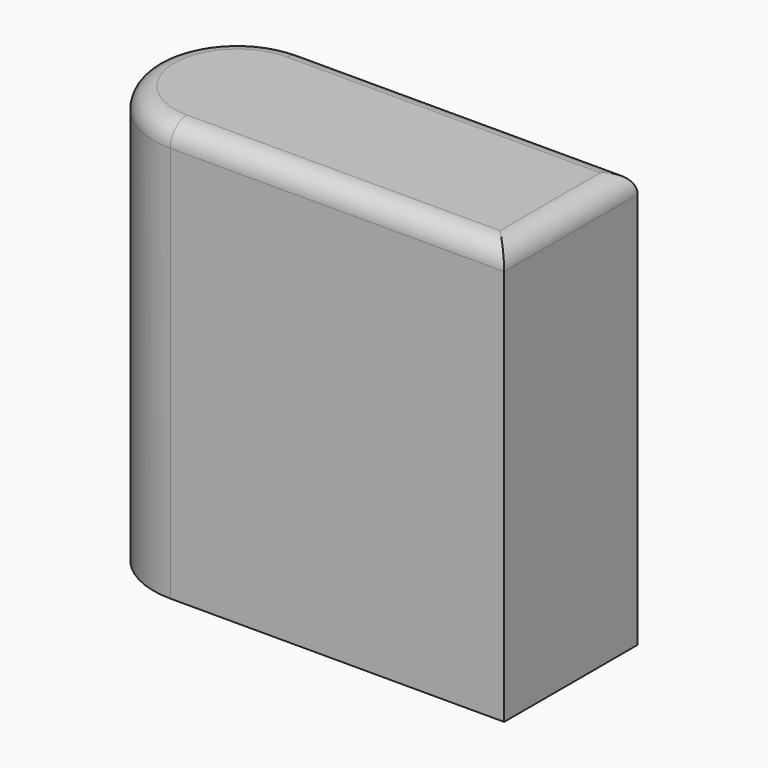
from build123d import *

# Parameters (mm, degrees)
F1_DEPTH = 100
F2_R     = 5


with BuildPart() as f1:
    # F0 (on Top) → F1 (new body)
    with BuildSketch(Plane.XY):
        with BuildLine():
            Line((40, 20), (-40, 20))
            ThreePointArc((-40, 20), (-60, 0), (-40, -20))
            Line((-40, -20), (40, -20))
            Line((40, -20), (40, 20))
        make_face()
    extrude(amount=F1_DEPTH)

    # F2
    f2_edges = [f1.edges().sort_by_distance(p)[0] for p in [
        (0, 20, 100),
        (40, 0, 100),
    ]]
    fillet(f2_edges, radius=F2_R)


solid = f1.part
